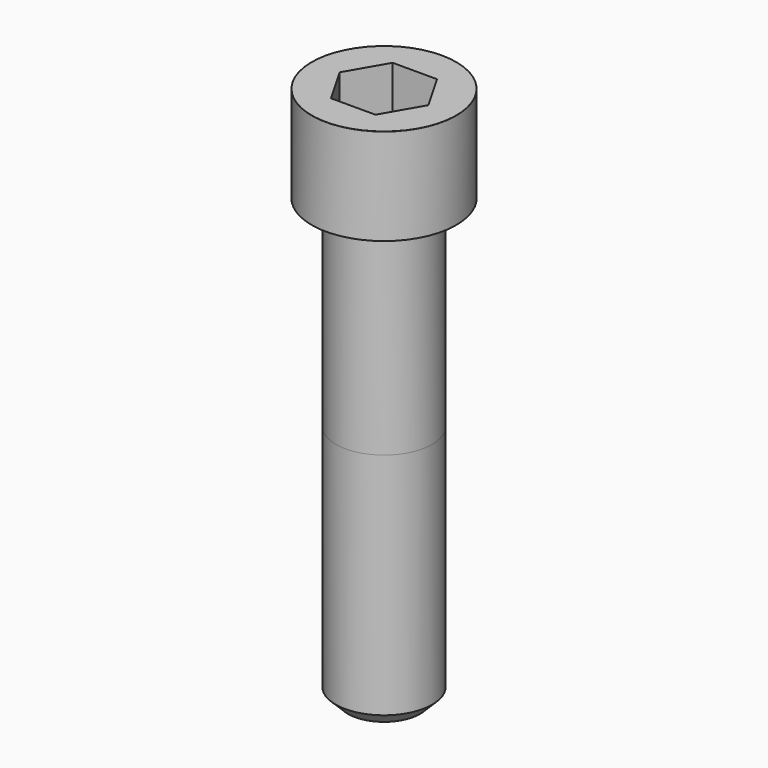
from build123d import *

# Parameters (mm, degrees)
POCKET_DEPTH = 19.15


with BuildPart() as part:
    # Sketch → Revolve (revolve)
    with BuildSketch(Plane.YZ):
        with BuildLine():
            Line((11.999, 0), (18, 0))
            Line((18, 0), (18, 23.97229))
            ThreePointArc((18, 23.97229), (17.991884, 23.991884), (17.97229, 24))
            Line((17.97229, 24), (0, 24))
            Line((0, -110), (0, 24))
            Line((9, -110), (0, -110))
            Line((12, -107), (9, -110))
            Line((12, -50), (12, -107))
            Line((11.999, 0), (12, -50))
        make_face()
    revolve(axis=Axis((0, 0, 0), (0, 0, 1)))

    # Sketch001 → Pocket (cut)
    with BuildSketch(Plane.XY.offset(24)):
        Polygon((11.056258, 0), (5.528129, 9.575), (-5.528129, 9.575), (-11.056258, 0), (-5.528129, -9.575), (5.528129, -9.575), align=None)
    extrude(amount=-POCKET_DEPTH, mode=Mode.SUBTRACT)


solid = part.part
